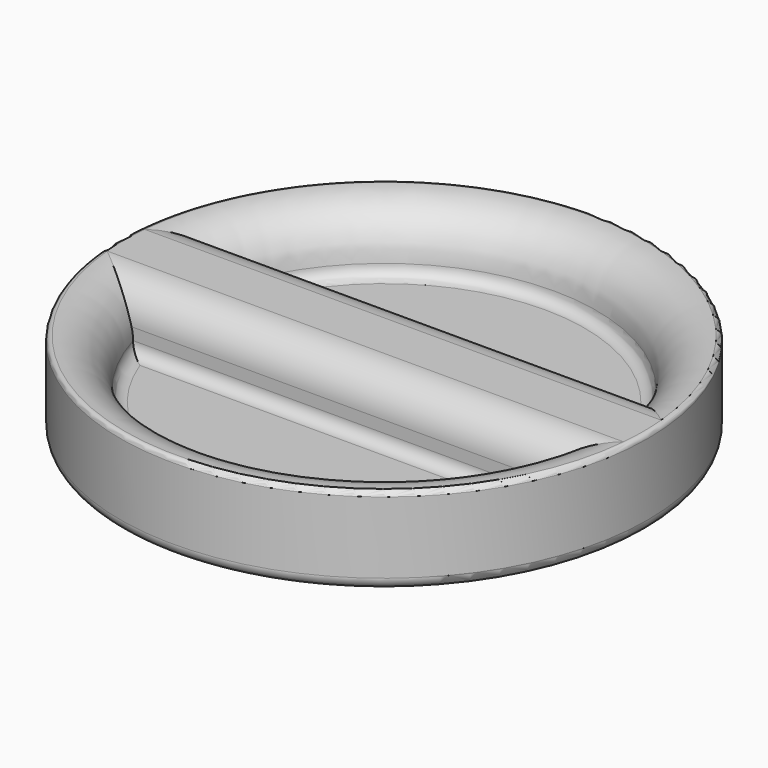
from build123d import *

# Parameters (mm, degrees)
PAD_DEPTH         = 22.099998
SKETCH003_R       = 44.199997
SKETCH003_R_2     = 22.099998
POCKET_DEPTH      = 0.001
POCKET_DEPTH_BACK = 7.501
HOLE_D            = 6
HOLE_DEPTH        = 6.5
HOLE_CSINK_D      = 6.5
HOLE_CSINK_ANGLE  = 90


with BuildPart() as part:
    # Sketch002 → Pad (new body, symmetric)
    with BuildSketch(Plane.YZ):
        with BuildLine():
            Line((-6, 2.5), (6, 2.5))
            ThreePointArc((5, 3.5), (5.292893, 2.792893), (6, 2.5))
            Line((5, 3.5), (5, 4.5))
            ThreePointArc((5, 4.5), (4.12132, 6.62132), (2, 7.5))
            Line((-2, 7.5), (2, 7.5))
            ThreePointArc((-2, 7.5), (-4.12132, 6.62132), (-5, 4.5))
            Line((-5, 3.5), (-5, 4.5))
            ThreePointArc((-6, 2.5), (-5.292893, 2.792893), (-5, 3.5))
        make_face()
    extrude(amount=PAD_DEPTH, both=True)

    # Sketch003 → Pocket (cut, two sides)
    with BuildSketch(Plane.XY) as pocket_sk:
        Circle(SKETCH003_R)
        Circle(SKETCH003_R_2, mode=Mode.SUBTRACT)
    extrude(amount=-POCKET_DEPTH, mode=Mode.SUBTRACT)
    extrude(pocket_sk.sketch, amount=POCKET_DEPTH_BACK, mode=Mode.SUBTRACT)

    # Sketch → Revolution (revolve)
    with BuildSketch(Plane.XZ):
        with BuildLine():
            ThreePointArc((22.099998, 7.5), (19.271582, 6.328421), (18.100015, 3.5))
            ThreePointArc((17.100015, 2.5), (17.807122, 2.792893), (18.100015, 3.5))
            Line((17.100015, 2.5), (0, 2.5))
            Line((0, 2.5), (0, 0))
            Line((16.510011, 0), (0, 0))
            ThreePointArc((21, 0), (18.755006, 1.8), (16.510011, 0))
            Line((21, 0), (21.5, 0))
            ThreePointArc((21.5, 0), (22.207107, 0.292893), (22.5, 1))
            Line((22.5, 7.1), (22.5, 1))
            ThreePointArc((22.5, 7.1), (22.382842, 7.382843), (22.099998, 7.5))
        make_face()
    revolve(axis=Axis((0, 0, 0), (0, 0, 1)))

    # Hole
    with Locations(Plane(origin=(0, 0, 0), x_dir=(1, 0, 0), z_dir=(0, 0, -1))):
        with Locations((0, 0)):
            CounterSinkHole(HOLE_D / 2, HOLE_CSINK_D / 2, depth=HOLE_DEPTH, counter_sink_angle=HOLE_CSINK_ANGLE)


solid = part.part
